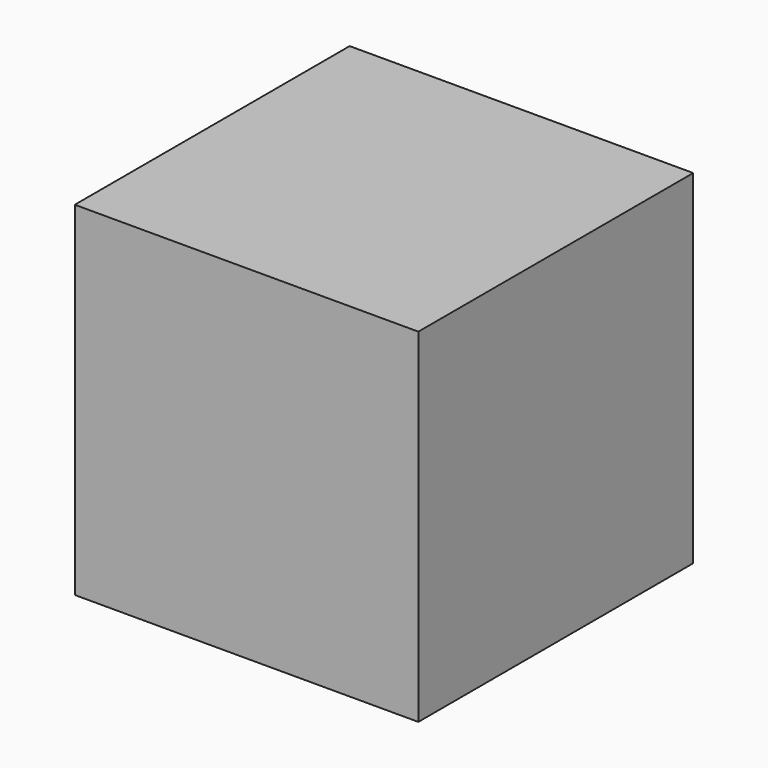
from build123d import *

# Parameters (mm, degrees)
F0_W     = 127
F0_H     = 127
F0_R     = 50.8
F1_DEPTH = 127


with BuildPart() as f1:
    # F0 (on Top) → F1 (new body)
    with BuildSketch(Plane.XY):
        with Locations((63.5, 63.5)):
            Rectangle(F0_W, F0_H)
        with Locations((63.5, 63.5)):
            Circle(F0_R, mode=Mode.SUBTRACT)
        with Locations((63.5, 63.5)):
            Circle(F0_R)
    extrude(amount=F1_DEPTH)


solid = f1.part
